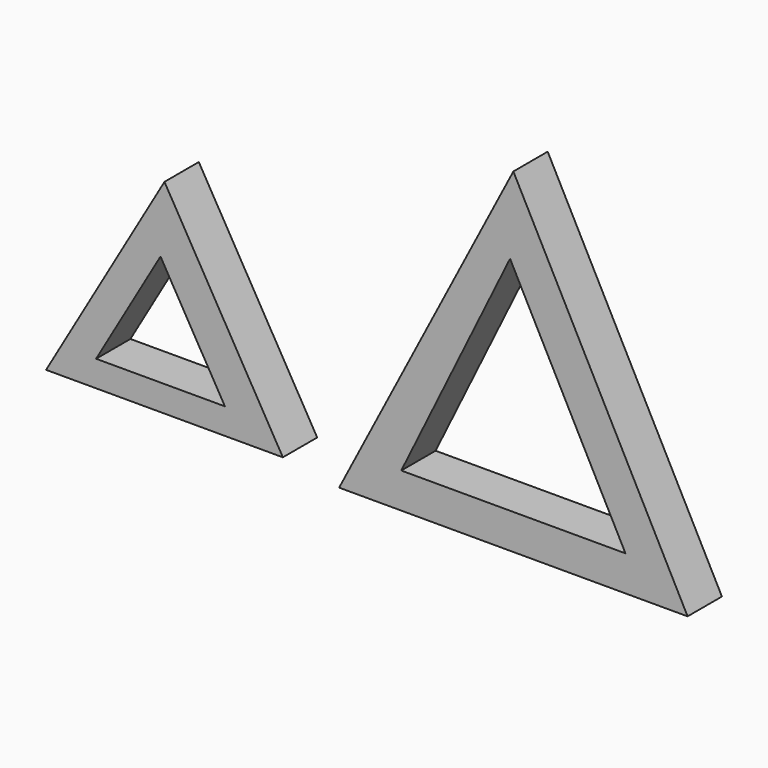
from build123d import *

# Parameters (mm, degrees)
F1_DEPTH = 10.39953


with BuildPart() as f1:
    # F0 (on Front) → F1 (new body)
    with BuildSketch(Plane.XZ):
        Polygon((48.737526, 96.050531), (6.511912, 14.855266), (90.96314, 14.855266), align=None)
        Polygon((75.90434, 23.402154), (21.570668, 23.402154), (47.938315, 77.177779), align=None, mode=Mode.SUBTRACT)
        Polygon((-35.81544, 66.339985), (-64.508498, 16.890235), (-7.122383, 16.890235), align=None)
        Polygon((-21.163657, 23.198642), (-52.384671, 23.198642), (-36.774164, 50.101863), align=None, mode=Mode.SUBTRACT)
    extrude(amount=F1_DEPTH)


solid = f1.part
